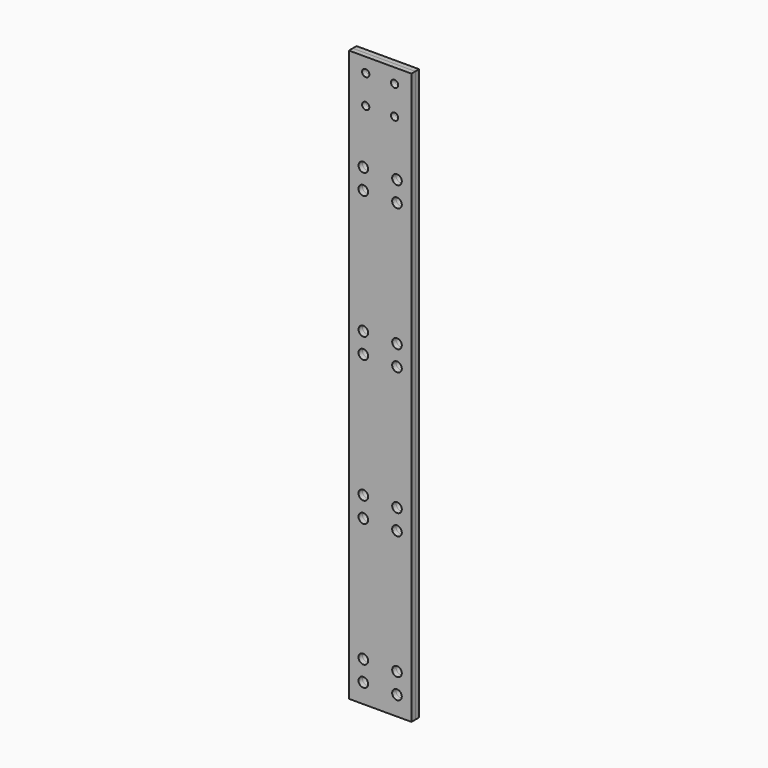
from build123d import *

# Parameters (mm, degrees)
F0_W     = 82.55
F0_H     = 753.2624
F1_DEPTH = 6.35
F2_W     = 82.55
F2_H     = 753.2624
F3_DEPTH = 6.35
F4_R     = 4.7625
F4_R_2   = 6.35
F5_DEPTH = 12.701


with BuildPart() as f1:
    # F0 (on Front) → F1 (new body)
    with BuildSketch(Plane.XZ):
        Rectangle(F0_W, F0_H)
    extrude(amount=-F1_DEPTH)


with BuildPart() as f3:
    # F2 (on face) → F3 (new body)
    with BuildSketch(Plane.XZ):
        Rectangle(F2_W, F2_H)
    extrude(amount=F3_DEPTH)


with BuildPart() as f5_tool:
    # F4 (on face) → F5 (new body, through all)
    with BuildSketch(Plane(origin=(0, 6.35, 0), x_dir=(-1, 0, 0), z_dir=(0, 1, 0))):
        with Locations((-19.05, 357.5812)):
            Circle(F4_R)
        with Locations((19.05, 357.5812)):
            Circle(F4_R)
        with Locations((19.05, 319.4812)):
            Circle(F4_R)
        with Locations((-19.05, 319.4812)):
            Circle(F4_R)
        with Locations((22.225, -351.2312)):
            Circle(F4_R_2)
        with Locations((22.225, -324.2564)):
            Circle(F4_R_2)
        with Locations((22.225, -133.7564)):
            Circle(F4_R_2)
        with Locations((22.225, -160.7312)):
            Circle(F4_R_2)
        with Locations((22.225, 56.7436)):
            Circle(F4_R_2)
        with Locations((22.225, 29.7688)):
            Circle(F4_R_2)
        with Locations((22.225, 247.2436)):
            Circle(F4_R_2)
        with Locations((22.225, 220.2688)):
            Circle(F4_R_2)
        with Locations((-22.225, -324.2564)):
            Circle(F4_R_2)
        with Locations((-22.225, -351.2312)):
            Circle(F4_R_2)
        with Locations((-22.225, -133.7564)):
            Circle(F4_R_2)
        with Locations((-22.225, -160.7312)):
            Circle(F4_R_2)
        with Locations((-22.225, 56.7436)):
            Circle(F4_R_2)
        with Locations((-22.225, 29.7688)):
            Circle(F4_R_2)
        with Locations((-22.225, 247.2436)):
            Circle(F4_R_2)
        with Locations((-22.225, 220.2688)):
            Circle(F4_R_2)
    extrude(amount=-F5_DEPTH)


with BuildPart() as f1_1:
    add(f1.part)

    # F5: cut by f5_tool
    add(f5_tool.part, mode=Mode.SUBTRACT)


with BuildPart() as f3_1:
    add(f3.part)

    # F5: cut by f5_tool
    add(f5_tool.part, mode=Mode.SUBTRACT)


solid = Compound([f1_1.part, f3_1.part])
